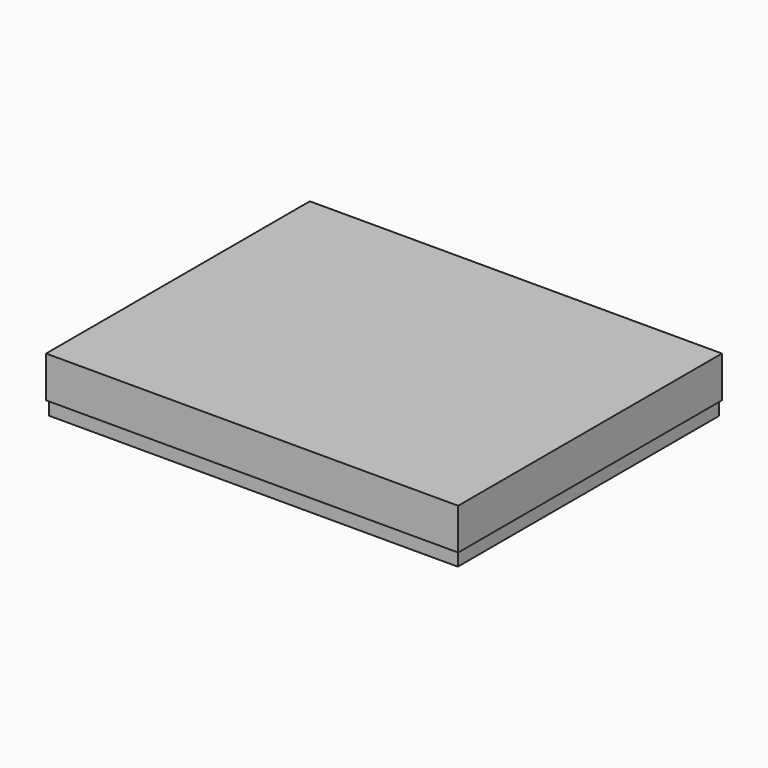
from build123d import *

# Parameters (mm, degrees)
F0_W     = 762
F0_H     = 609.6
F1_DEPTH = 101.6
F2_W     = 755.65
F2_H     = 603.25
F3_DEPTH = 25.4


with BuildPart() as f1:
    # F0 (on Top) → F1 (new body)
    with BuildSketch(Plane.XY):
        with Locations((381, 304.8)):
            Rectangle(F0_W, F0_H)
    extrude(amount=F1_DEPTH)

    # F2 (on face) → F3 (cut)
    with BuildSketch(Plane(origin=(0, 0, 0), x_dir=(1, 0, 0), z_dir=(0, 0, -1))):
        Polygon((762, 0), (0, 0), (0, -3.175), (0, -606.425), (0, -609.6), (762, -609.6), (762, -606.425), (762, -3.175), align=None)
        with Locations((381, -304.8)):
            Rectangle(F2_W, F2_H, mode=Mode.SUBTRACT)
    extrude(amount=-F3_DEPTH, mode=Mode.SUBTRACT)


solid = f1.part
